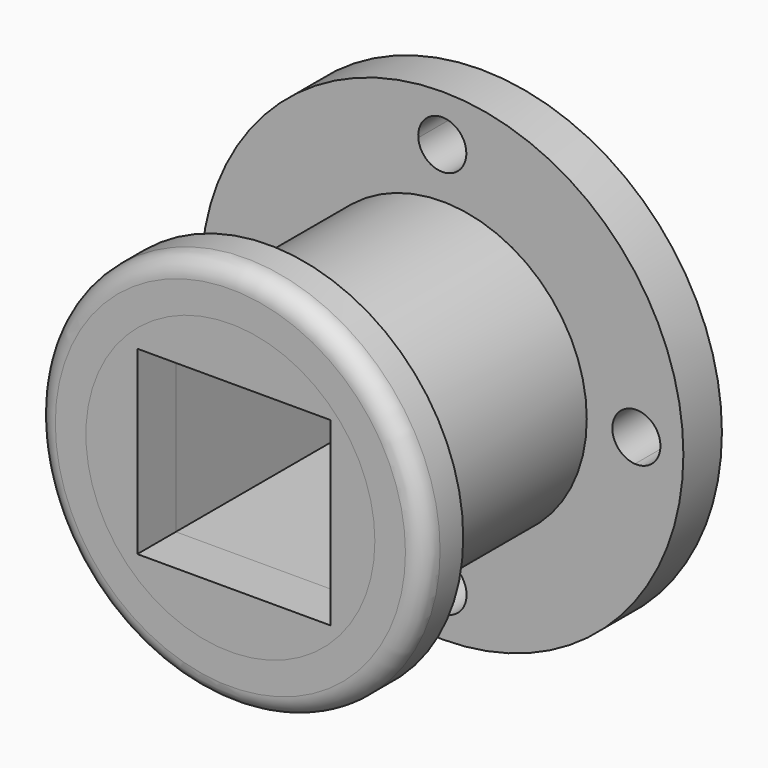
from build123d import *

# Parameters (mm, degrees)
F0_R      = 63.58634276
F1_DEPTH  = 12.7
F2_R      = 38.1063465956
F3_DEPTH  = 57.15
F4_R      = 51.2486821377
F4_R_2    = 38.1063465956
F5_DEPTH  = 12.7
F6_DEPTH  = 12.7
F7_W      = 50.9365983307
F7_H      = 47.6803779602
F8_DEPTH  = 80.518
F9_W      = 50.2388384193
F9_H      = 47.6803779602
F10_DEPTH = 76.2
F11_R     = 5.08


with BuildPart() as f1:
    # F0 (on Front) → F1 (new body)
    with BuildSketch(Plane.XZ):
        Circle(F0_R)
        with BuildLine():
            ThreePointArc((-50.8002620834, -6.3266222589), (-57.6306849484, 0), (-50.8002620834, 6.3266222589))
            ThreePointArc((-50.8002620834, 6.3266222589), (-36.198705237, 36.198708763), (-6.3266173105, 50.8002626996))
            ThreePointArc((-6.3266173105, 50.8002626996), (-0.2427860502, 57.6260293987), (6.3451967395, 51.2854792178))
            ThreePointArc((6.3451967395, 51.2854792178), (6.340550181, 51.0426931676), (6.3266173105, 50.8002626996))
            ThreePointArc((6.3266173105, 50.8002626996), (36.1980247945, 36.1993891927), (50.8000242013, 6.3285320647))
            ThreePointArc((50.8000242013, 6.3285320647), (55.5352050309, 4.6203013939), (57.533405357, 0))
            ThreePointArc((57.533405357, 0), (55.5352050309, -4.6203013939), (50.8000242013, -6.3285320647))
            ThreePointArc((50.8000242013, -6.3285320647), (36.2228821576, -36.1745156863), (6.3964022479, -50.7915230647))
            ThreePointArc((6.3964022479, -50.7915230647), (6.4058278822, -50.9920143065), (6.4089707878, -51.1927023798))
            ThreePointArc((6.4089707878, -51.1927023798), (-0.2006880733, -57.598530262), (-6.3964022479, -50.7915230647))
            ThreePointArc((-6.3964022479, -50.7915230647), (-36.2235621326, -36.1738347894), (-50.8002620834, -6.3266222589))
        make_face(mode=Mode.SUBTRACT)
        with BuildLine():
            ThreePointArc((-50.8002620834, 6.3266222589), (-46.6303560457, 4.3117724961), (-44.9402809377, 0))
            ThreePointArc((-44.9402809377, 0), (-46.6303560457, -4.3117724961), (-50.8002620834, -6.3266222589))
            ThreePointArc((-50.8002620834, -6.3266222589), (-36.2235621326, -36.1738347894), (-6.3964022479, -50.7915230647))
            ThreePointArc((-6.3964022479, -50.7915230647), (0, -44.7837315919), (6.3964022479, -50.7915230647))
            ThreePointArc((6.3964022479, -50.7915230647), (36.2228821576, -36.1745156863), (50.8000242013, -6.3285320647))
            ThreePointArc((50.8000242013, -6.3285320647), (44.8519994025, 0), (50.8000242013, 6.3285320647))
            ThreePointArc((50.8000242013, 6.3285320647), (36.1980247945, 36.1993891927), (6.3266173105, 50.8002626996))
            ThreePointArc((6.3266173105, 50.8002626996), (0, 44.9402824782), (-6.3266173105, 50.8002626996))
            ThreePointArc((-6.3266173105, 50.8002626996), (-36.198705237, 36.198708763), (-50.8002620834, 6.3266222589))
        make_face()
    extrude(amount=F1_DEPTH)

    # F2 (on face) → F3 (join)
    with BuildSketch(Plane.XZ.offset(12.7)):
        Circle(F2_R)
    extrude(amount=F3_DEPTH)


with BuildPart() as f5:
    # F4 (on face) → F5 (new body)
    with BuildSketch(Plane.XZ.offset(69.85)):
        Circle(F4_R)
        Circle(F4_R_2, mode=Mode.SUBTRACT)
    extrude(amount=F5_DEPTH)

    # F11
    f11_edges = [f5.edges().sort_by_distance(p)[0] for p in [
        (-51.248682, -82.55, 0),
    ]]
    fillet(f11_edges, radius=F11_R)


with BuildPart() as f6:
    # F6 (new): a face of the model
    f6_faces = [f1.part.faces().sort_by_distance(p)[0] for p in [
        (0, -69.85, 0),
    ]]
    extrude(f6_faces, amount=F6_DEPTH)

    # F7 (on face) → F8 (cut)
    with BuildSketch(Plane.XZ.offset(82.55)):
        with Locations((0.9303465486, 0.4651751369)):
            Rectangle(F7_W, F7_H)
    extrude(amount=-F8_DEPTH, mode=Mode.SUBTRACT)


with BuildPart() as f1_1:
    add(f1.part)

    # F9 (on face) → F10 (cut)
    with BuildSketch(Plane.XZ.offset(69.85)):
        with Locations((0.5814684555, 0.4651751369)):
            Rectangle(F9_W, F9_H)
    extrude(amount=-F10_DEPTH, mode=Mode.SUBTRACT)


solid = Compound([f5.part, f6.part, f1_1.part])
